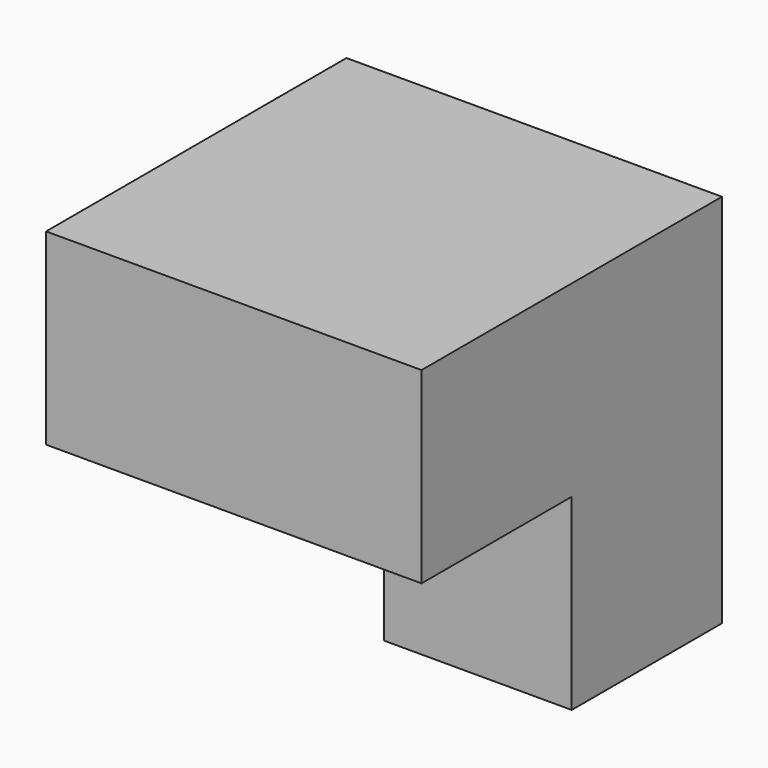
from build123d import *

# Parameters (mm, degrees)
F0_W     = 18.995179
F0_H     = 18.995181
F1_DEPTH = 37.9984
F0_W_2   = 18.995181
F2_DEPTH = 18.9992


with BuildPart() as f1:
    # F0 (on Top) → F1 (new body)
    with BuildSketch(Plane.XY):
        with Locations((9.49759, 9.49759)):
            Rectangle(F0_W, F0_H)
    extrude(amount=-F1_DEPTH)

    # F0 (on Top) → F2 (join)
    with BuildSketch(Plane.XY):
        with Locations((-9.49759, -9.49759)):
            Rectangle(F0_W_2, F0_H)
        with Locations((-9.49759, 9.49759)):
            Rectangle(F0_W_2, F0_H)
        with Locations((9.49759, 9.49759)):
            Rectangle(F0_W, F0_H)
        with Locations((9.49759, -9.49759)):
            Rectangle(F0_W, F0_H)
    extrude(amount=-F2_DEPTH)


solid = f1.part
